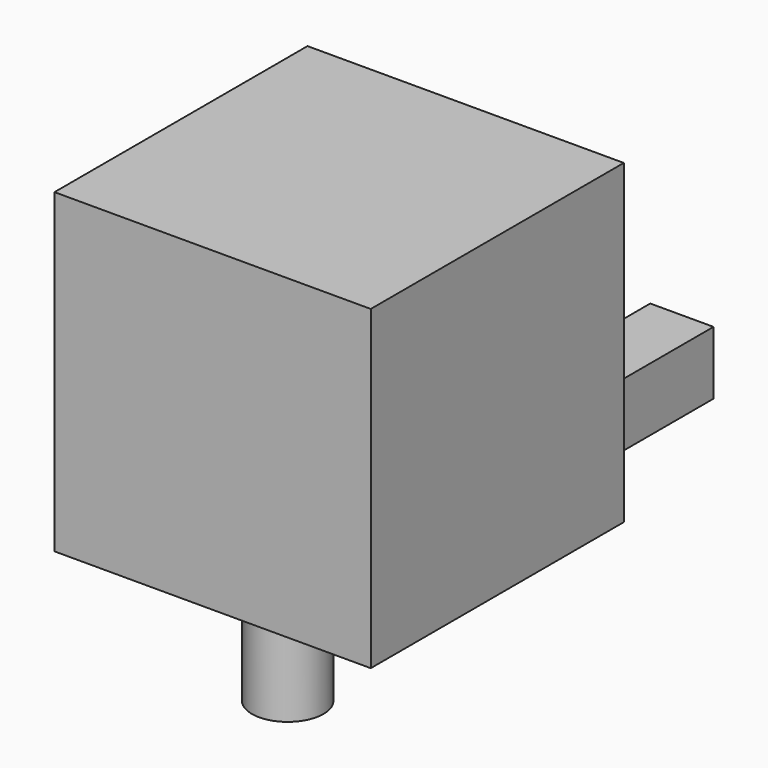
from build123d import *

# Parameters (mm, degrees)
F0_W     = 50
F0_H     = 50
F1_DEPTH = 50
F2_R     = 5.653003
F3_DEPTH = 25
F4_R     = 10.570293
F5_DEPTH = 10
F6_W     = 10
F6_H     = 10
F7_DEPTH = 25


with BuildPart() as f1:
    # F0 (on Front) → F1 (new body)
    with BuildSketch(Plane.XZ):
        with Locations((-25, 25)):
            Rectangle(F0_W, F0_H)
    extrude(amount=F1_DEPTH)

    # F2 (on face) → F3 (join)
    with BuildSketch(Plane(origin=(0, 0, 0), x_dir=(1, 0, 0), z_dir=(0, 0, -1))):
        with Locations((-32.565601, 25.707576)):
            Circle(F2_R)
    extrude(amount=F3_DEPTH)

    # F4 (on face) → F5 (cut)
    with BuildSketch(Plane(origin=(-50, 0, 0), x_dir=(0, -1, 0), z_dir=(-1, 0, 0))):
        with Locations((25.992477, 27.822873)):
            Circle(F4_R)
    extrude(amount=-F5_DEPTH, mode=Mode.SUBTRACT)

    # F6 (on face) → F7 (join)
    with BuildSketch(Plane(origin=(0, 0, 0), x_dir=(-1, 0, 0), z_dir=(0, 1, 0))):
        with Locations((10.811531, 10.130358)):
            Rectangle(F6_W, F6_H)
    extrude(amount=F7_DEPTH)


solid = f1.part
